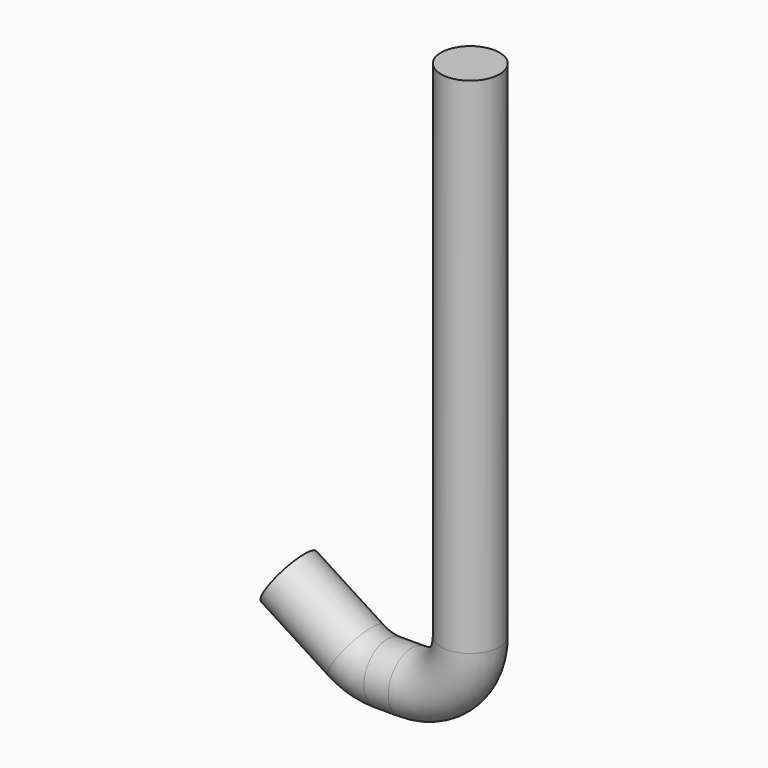
from build123d import *

# Parameters (mm, degrees)
F2_R = 6.35


with BuildPart() as f3:
    # F3: sweep along a path in F0
    with BuildLine(Plane.XZ) as f3_path:
        Line((0, 63.8551861048), (0, -45.4791698933))
        ThreePointArc((0, -45.4791698933), (-3.7197438789, -54.4594260143), (-12.7, -58.1791698933))
        Line((-12.7, -58.1791698933), (-17.9959694979, -58.1791698933))
        ThreePointArc((-17.9959694979, -58.1791698933), (-21.5710151569, -57.6655987605), (-24.8569206193, -56.1664216312))
        Line((-24.8569206193, -56.1664216312), (-39.4046530128, -46.8271374702))
    # F2 (on plane+point) → F3 (sweep)
    with BuildSketch(Plane.XY.offset(63.8551861048)):
        Circle(F2_R)
    sweep(path=f3_path.line)


solid = f3.part
